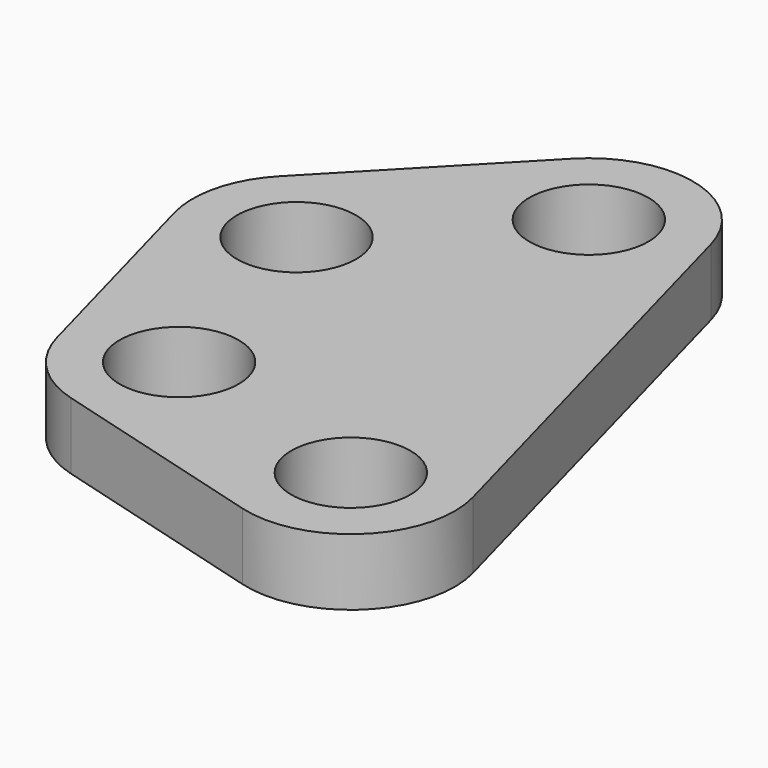
from build123d import *

# Parameters (mm, degrees)
F1_R     = 2.679687
F2_DEPTH = 3


with BuildPart() as f2:
    # F1 (on Top) → F2 (new body)
    with BuildSketch(Plane.XY):
        with BuildLine():
            Line((1.104634, 20.705122), (-6.082774, 13.244711))
            ThreePointArc((-6.082774, 13.244711), (-7.2458, 11.159807), (-7.229049, 8.772513))
            Line((-7.229049, 8.772513), (-4.516401, -1.225397))
            ThreePointArc((-4.516401, -1.225397), (-3.324232, -3.293775), (-1.266915, -4.504931))
            Line((-1.266915, -4.504931), (8.705599, -7.309485))
            ThreePointArc((8.705599, -7.309485), (13.266291, -6.128786), (14.488918, -1.579154))
            Line((14.488918, -1.579154), (8.991166, 18.683715))
            ThreePointArc((8.991166, 18.683715), (5.63666, 21.991473), (1.104634, 20.705122))
        make_face()
        Circle(F1_R, mode=Mode.SUBTRACT)
        with Locations((9.972518, -2.804555)):
            Circle(F1_R, mode=Mode.SUBTRACT)
        with Locations((-2.712648, 9.997909)):
            Circle(F1_R, mode=Mode.SUBTRACT)
        with Locations((4.474763, 17.458323)):
            Circle(F1_R, mode=Mode.SUBTRACT)
    extrude(amount=F2_DEPTH)


solid = f2.part
